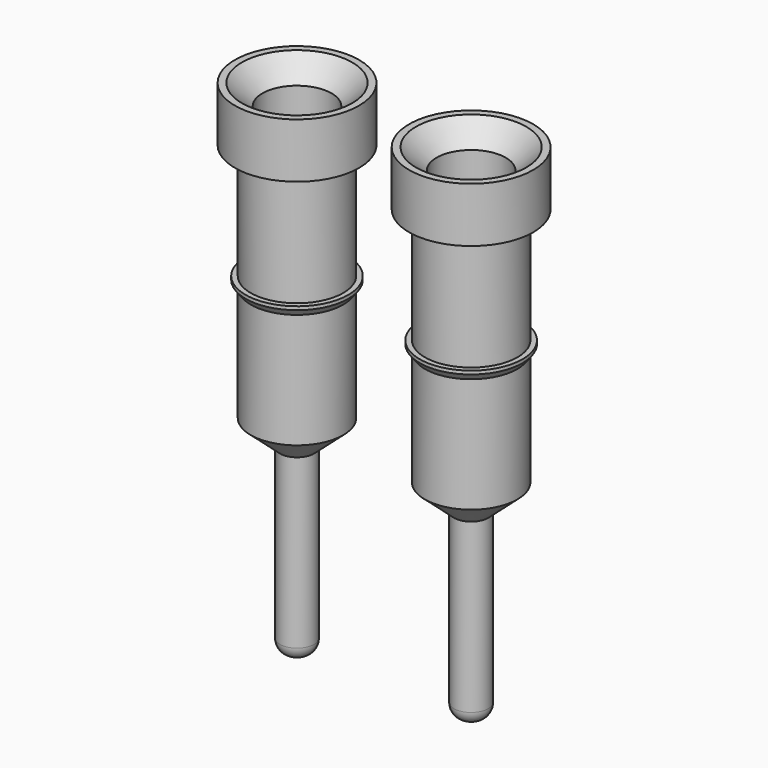
from build123d import *

# Parameters (mm, degrees)
SKETCH023_R      = 0.25
EXTRUDE012_DEPTH = 2.65
FILLET001_R      = 0.2
SKETCH007_R      = 0.505
EXTRUDE009_DEPTH = 6
SKETCH005_R      = 0.675
EXTRUDE010_DEPTH = 1.68
SKETCH024_R      = 0.675
SKETCH025_R      = 0.675
SKETCH026_R      = 0.75
SKETCH027_R      = 0.75
SKETCH006_R      = 0.905
EXTRUDE011_DEPTH = 0.8
CHAMFER004_SIZE  = 0.3
ARRAY005_X_COUNT = 2
ARRAY005_X_PITCH = 2.54


with BuildPart() as fillet001:
    # Sketch023 → Extrude012 (new body)
    with BuildSketch(Plane.XY):
        Circle(SKETCH023_R)
    extrude(amount=-EXTRUDE012_DEPTH)

    # Fillet001
    fillet001_edges = [fillet001.edges().sort_by_distance(p)[0] for p in [
        (-0.25, 0, -2.65),
    ]]
    fillet(fillet001_edges, radius=FILLET001_R)


with BuildPart() as extrude009:
    # Sketch007 → Extrude009 (new body)
    with BuildSketch(Plane.XY.offset(0.4)):
        Circle(SKETCH007_R)
    extrude(amount=EXTRUDE009_DEPTH)


with BuildPart() as extrude010:
    # Sketch005 → Extrude010 (new body)
    with BuildSketch(Plane.XY.offset(2.2)):
        Circle(SKETCH005_R)
    extrude(amount=EXTRUDE010_DEPTH)


with BuildPart() as loft006:
    # Sketch023 → Loft006 section 0
    with BuildSketch(Plane.XY):
        Circle(SKETCH023_R)
    # Sketch024 → Loft006 section 1
    with BuildSketch(Plane.XY.offset(0.375)):
        Circle(SKETCH024_R)
    # Sketch025 → Loft006 section 2
    with BuildSketch(Plane.XY.offset(2.05)):
        Circle(SKETCH025_R)
    # Sketch026 → Loft006 section 3
    with BuildSketch(Plane.XY.offset(2.15)):
        Circle(SKETCH026_R)
    # Sketch027 → Loft006 section 4
    with BuildSketch(Plane.XY.offset(2.2)):
        Circle(SKETCH027_R)
    loft(ruled=True)


with BuildPart() as array005:
    # Sketch006 → Extrude011 (new body)
    with BuildSketch(Plane.XY.offset(2.9)):
        Circle(SKETCH006_R)
    extrude(amount=EXTRUDE011_DEPTH)


with BuildPart() as array005_1:
    # Extrude011 placement: moved
    add(array005.part.moved(Location((0, 0, 0.98))))

    # Fusion004: union Extrude010, Loft006
    add(extrude010.part)
    add(loft006.part)

    # Cut006: cut Extrude009
    add(extrude009.part, mode=Mode.SUBTRACT)

    # Chamfer004
    chamfer004_edges = [array005_1.edges().sort_by_distance(p)[0] for p in [
        (-0.505, 0, 4.68),
    ]]
    chamfer(chamfer004_edges, length=CHAMFER004_SIZE)

    # Fusion005: union Fillet001
    add(fillet001.part)

    # Array005 X: Array005 ×2


with BuildPart() as array005_2:
    add(array005_1.part)
    with Locations(*[(i * ARRAY005_X_PITCH, 0, 0) for i in range(1, ARRAY005_X_COUNT)]):
        add(array005_1.part)


solid = array005_2.part
